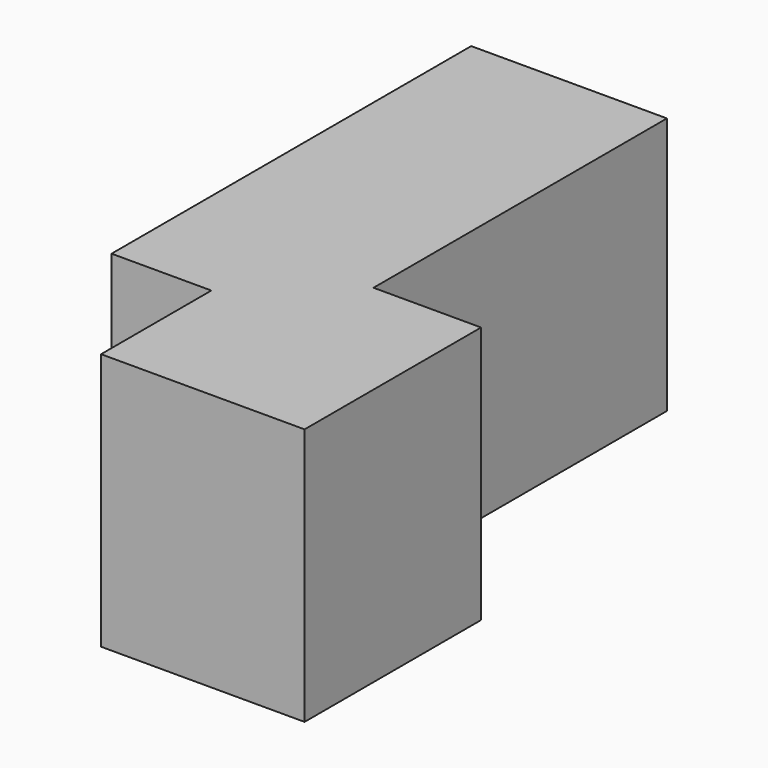
from build123d import *

# Parameters (mm, degrees)
F0_W     = 13.075247407
F0_H     = 11.2796872854
F1_DEPTH = 35.0964441895
F2_DEPTH = 14.6482251585


with BuildPart() as f1:
    # F0 (on Top) → F1 (new body)
    with BuildSketch(Plane.XY):
        Polygon((0, -11.2796872854), (0, 0), (13.075247407, 0), (13.075247407, 35.3304594755), (-13.5974138975, 35.3304594755), (-13.5974138975, -11.2796872854), align=None)
        Polygon((27.7324952185, 0), (13.075247407, 0), (13.075247407, -11.2796872854), (0, -11.2796872854), (0, -30.0637185574), (27.7324952185, -30.0637185574), align=None)
        with Locations((6.5376237035, -5.6398436427)):
            Rectangle(F0_W, F0_H)
    extrude(amount=F1_DEPTH)

    # F2 (add): a face of the model
    f2_faces = [f1.faces().sort_by_distance(p)[0] for p in [
        (-0.2610832453, 35.3304594755, 17.5482220948),
    ]]
    extrude(f2_faces, amount=F2_DEPTH)


solid = f1.part
